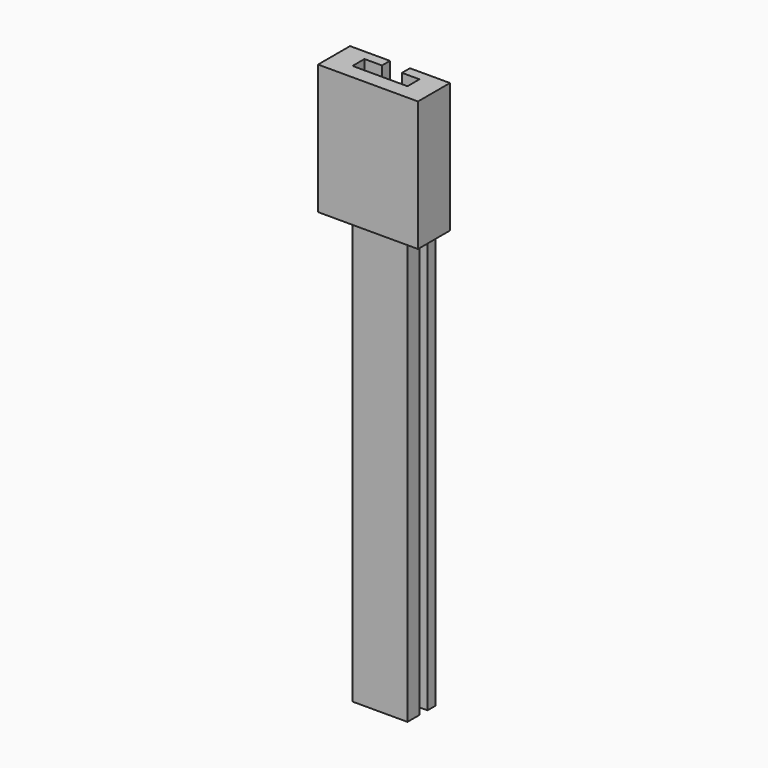
from build123d import *

# Parameters (mm, degrees)
F1_DEPTH = 41.275
F3_DEPTH = 136.525


with BuildPart() as f1:
    # F0 (on Top) → F1 (new body)
    with BuildSketch(Plane.XY):
        Polygon((15.875, -6.35), (15.875, 6.35), (3.175, 6.35), (3.175, 3.175), (8.73125, 3.175), (8.73125, -1.5875), (-8.73125, -1.5875), (-8.73125, 3.175), (-3.175, 3.175), (-3.175, 6.35), (-15.875, 6.35), (-15.875, -6.35), align=None)
    extrude(amount=F1_DEPTH)


with BuildPart() as f3:
    # F2 (on face) → F3 (new body)
    with BuildSketch(Plane(origin=(0, 0, 0), x_dir=(1, 0, 0), z_dir=(0, 0, -1))):
        Polygon((3.175, -3.175), (8.73125, -3.175), (8.73125, 1.5875), (-8.73125, 1.5875), (-8.73125, -3.175), (-3.175, -3.175), (-3.175, -4.7625), (-3.175, -6.35), (-8.73125, -6.35), (-8.73125, -9.525), (8.73125, -9.525), (8.73125, -6.35), (3.175, -6.35), (3.175, -4.7625), align=None)
    extrude(amount=F3_DEPTH)


solid = Compound([f1.part, f3.part])
